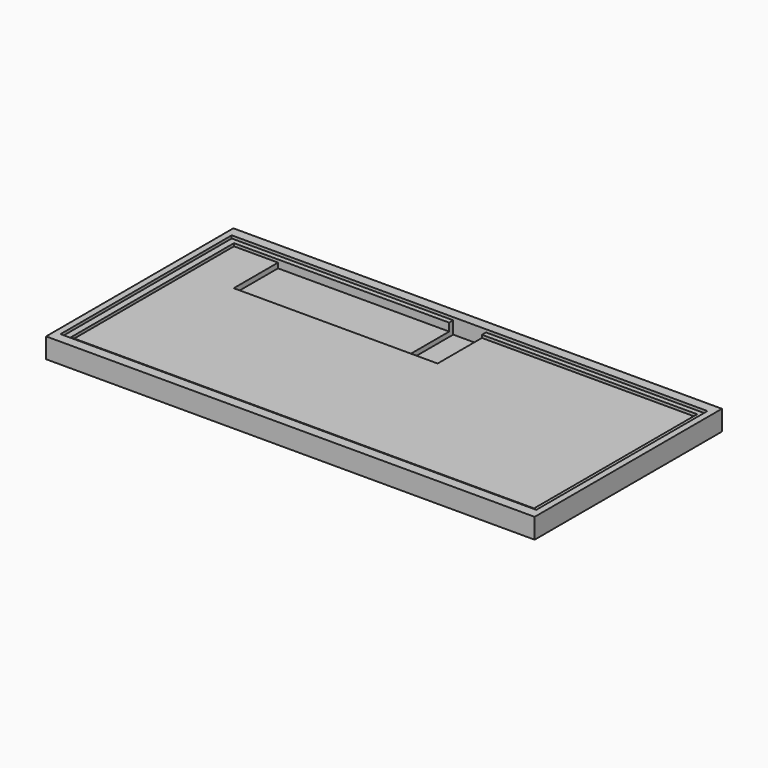
from build123d import *

# Parameters (mm, degrees)
SKETCH001_W     = 308.102
SKETCH001_H     = 147.6375
PAD_DEPTH       = 12.7
SKETCH002_W     = 292.1
SKETCH002_H     = 128.5875
POCKET_DEPTH    = 3.556
SKETCH_W        = 300.0375
SKETCH_H        = 134.9375
POCKET001_DEPTH = 1.778
SKETCH003_W     = 20.6375
SKETCH003_H     = 38.1
POCKET002_DEPTH = 7.9375
SKETCH004_W     = 107.95
SKETCH004_H     = 34.925
POCKET003_DEPTH = 3.175


with BuildPart() as part:
    # Sketch001 → Pad (new body)
    with BuildSketch(Plane.XY):
        Rectangle(SKETCH001_W, SKETCH001_H)
    extrude(amount=PAD_DEPTH)

    # Sketch002 → Pocket (cut)
    with BuildSketch(Plane.XY.offset(12.7)):
        Rectangle(SKETCH002_W, SKETCH002_H)
    extrude(amount=-POCKET_DEPTH, mode=Mode.SUBTRACT)

    # Sketch → Pocket001 (cut)
    with BuildSketch(Plane.XY.offset(12.7)):
        Rectangle(SKETCH_W, SKETCH_H)
    extrude(amount=-POCKET001_DEPTH, mode=Mode.SUBTRACT)

    # Sketch003 → Pocket002 (cut)
    with BuildSketch(Plane.XY.offset(10.922)):
        with Locations((0, 48.41875)):
            Rectangle(SKETCH003_W, SKETCH003_H)
    extrude(amount=-POCKET002_DEPTH, mode=Mode.SUBTRACT)

    # Sketch004 → Pocket003 (cut)
    with BuildSketch(Plane.XY.offset(9.144)):
        with Locations((-64.29375, 46.83125)):
            Rectangle(SKETCH004_W, SKETCH004_H)
    extrude(amount=-POCKET003_DEPTH, mode=Mode.SUBTRACT)


solid = part.part
